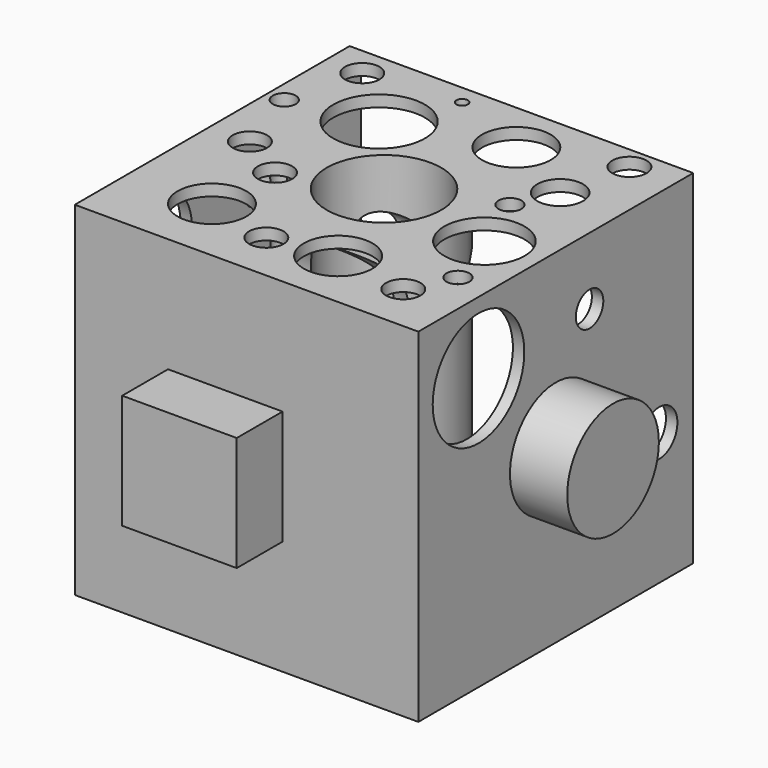
from build123d import *

# Parameters (mm, degrees)
F0_W     = 76.2
F0_H     = 76.2
F1_DEPTH = 76.2
F2_W     = 25.4
F2_H     = 25.4
F3_DEPTH = 12.7
F4_R     = 12.7
F5_DEPTH = 12.7
F7_D     = 25.4
F9_DEPTH = 12.7
F11_T    = -2.54
F13_D    = 5.08
F15_D    = 10.16
F17_D    = 20.32
F19_D    = 15.24
F21_D    = 7.62
F23_D    = 15.24
F25_D    = 15.24
F27_D    = 17.78
F29_D    = 5.08
F31_D    = 7.62
F33_D    = 7.62
F35_D    = 2.54
F37_D    = 7.62
F39_D    = 7.62
F41_D    = 7.62
F43_D    = 5.08
F45_D    = 25.4
F47_D    = 7.62
F49_D    = 10.16


with BuildPart() as f1:
    # F0 (on Front) → F1 (new body)
    with BuildSketch(Plane.XZ):
        with Locations((-38.1, 38.1)):
            Rectangle(F0_W, F0_H)
    extrude(amount=F1_DEPTH)

    # F2 (on face) → F3 (join)
    with BuildSketch(Plane.XZ.offset(76.2)):
        with Locations((-42.8226087242, 38.1)):
            Rectangle(F2_W, F2_H)
    extrude(amount=F3_DEPTH)

    # F4 (on face) → F5 (join)
    with BuildSketch(Plane.YZ):
        with Locations((-38.1, 38.1)):
            Circle(F4_R)
    extrude(amount=F5_DEPTH)

    # F7 (through all)
    with Locations(Plane.XY.offset(76.2)):
        with Locations((-38.1, -38.1)):
            Hole(F7_D / 2)

    # F8 (on face) → F9 (join)
    with BuildSketch(Plane(origin=(-76.2, 0, 0), x_dir=(0, -1, 0), z_dir=(-1, 0, 0))):
        Polygon((49.0373634212, 28.8029547439), (36.3373634212, 50.8), (23.6373634212, 28.8029547439), align=None)
    extrude(amount=F9_DEPTH)

    # F11
    f11_openings = [f1.faces().sort_by_distance(p)[0] for p in [
        (-38.1, 0, 38.1),
    ]]
    offset(amount=F11_T, openings=f11_openings, kind=Kind.INTERSECTION)

    # F13 (through all)
    with Locations(Plane(origin=(0, 0, 0), x_dir=(1, 0, 0), z_dir=(0, 0, -1))):
        with Locations((-7.3378621601, 56.0628250241)):
            Hole(F13_D / 2)

    # F15 (through all)
    with Locations(Plane(origin=(0, 0, 0), x_dir=(1, 0, 0), z_dir=(0, 0, -1))):
        with Locations((-13.404969126, 20.1341640204)):
            Hole(F15_D / 2)

    # F17 (through all)
    with Locations(Plane(origin=(0, 0, 0), x_dir=(1, 0, 0), z_dir=(0, 0, -1))):
        with Locations((-54.5475557446, 18.9017821103)):
            Hole(F17_D / 2)

    # F19 (through all)
    with Locations(Plane(origin=(0, 0, 0), x_dir=(1, 0, 0), z_dir=(0, 0, -1))):
        with Locations((-57.8655041754, 61.0871501267)):
            Hole(F19_D / 2)

    # F21 (through all)
    with Locations(Plane.XY.offset(76.2)):
        with Locations((-67.3243552446, -38.746714592)):
            Hole(F21_D / 2)

    # F23 (through all)
    with Locations(Plane.XY.offset(76.2)):
        with Locations((-28.580898419, -62.7125352621)):
            Hole(F23_D / 2)

    # F25 (through all)
    with Locations(Plane.XY.offset(76.2)):
        with Locations((-29.9407225102, -11.6013372317)):
            Hole(F25_D / 2)

    # F27 (through all)
    with Locations(Plane.XY.offset(76.2)):
        with Locations((-12.2644109651, -42.5527319312)):
            Hole(F27_D / 2)

    # F29 (through all)
    with Locations(Plane.XY.offset(76.2)):
        with Locations((-17.3488724977, -29.1279032826)):
            Hole(F29_D / 2)

    # F31 (through all)
    with Locations(Plane.XY.offset(76.2)):
        with Locations((-56.6427186131, -45.1233759522)):
            Hole(F31_D / 2)

    # F33 (through all)
    with Locations(Plane.XY.offset(76.2)):
        with Locations((-10.066723451, -5.1007415168)):
            Hole(F33_D / 2)

    # F35 (through all)
    with Locations(Plane.XY.offset(76.2)):
        with Locations((-47.8079319, -4.301707726)):
            Hole(F35_D / 2)

    # F37 (through all)
    with Locations(Plane.XY.offset(76.2)):
        with Locations((-42.5873287022, -65.1118978858)):
            Hole(F37_D / 2)

    # F39 (through all)
    with Locations(Plane.XY.offset(76.2)):
        with Locations((-11.9841629639, -65.4057115316)):
            Hole(F39_D / 2)

    # F41 (through all)
    with Locations(Plane.XY.offset(76.2)):
        with Locations((-68.1586936116, -6.5650814213)):
            Hole(F41_D / 2)

    # F43 (through all)
    with Locations(Plane.XY.offset(76.2)):
        with Locations((-72.4407881498, -22.8280257434)):
            Hole(F43_D / 2)

    # F45 (through all)
    with Locations(Plane.YZ):
        with Locations((-59.5215149224, 60.3131763637)):
            Hole(F45_D / 2)

    # F47 (through all)
    with Locations(Plane.YZ):
        with Locations((-28.7347733974, 61.3436549902)):
            Hole(F47_D / 2)

    # F49 (through all)
    with Locations(Plane.YZ):
        with Locations((-9.4634192064, 29.2589906603)):
            Hole(F49_D / 2)


solid = f1.part
